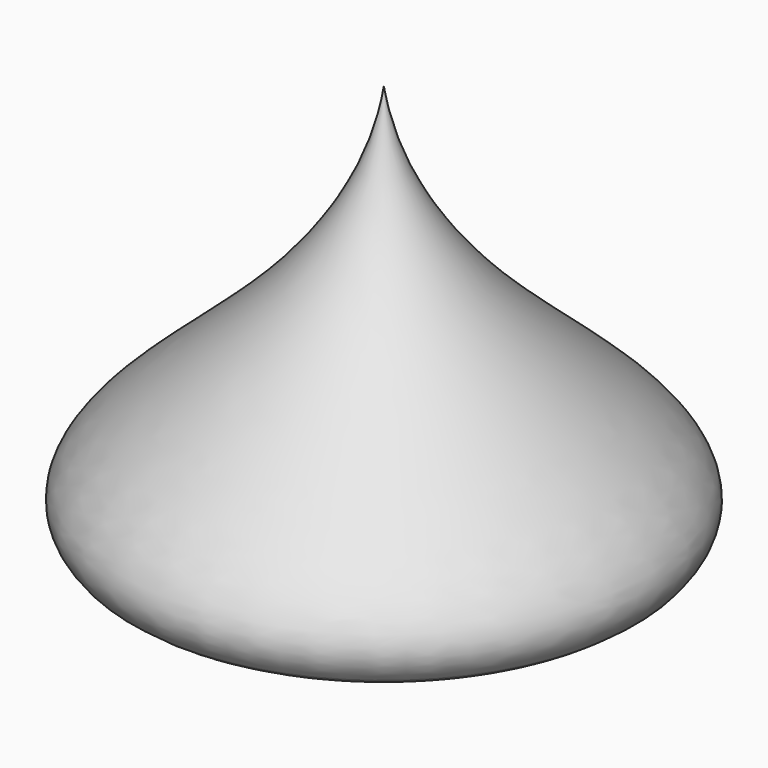
from build123d import *

# Parameters (mm, degrees)
F2_R = 5


with BuildPart() as f1:
    # F0 (on Front) → F1 (revolve)
    with BuildSketch(Plane.XZ):
        with BuildLine():
            Line((-55, 0), (0, 0))
            Line((0, 0), (0, 90))
            add(Edge.make_bspline(
                [(0, 90), (-7.5536321915, 39.2357906064), (-77.6180223598, 19.179575929), (-55, 0)],
                knots=[0, 0, 0, 0, 105.4751155486, 105.4751155486, 105.4751155486, 105.4751155486], degree=3))
        make_face()
    revolve(axis=Axis((0, 0, 45), (0, 0, -1)))

    # F2
    f2_edges = [f1.edges().sort_by_distance(p)[0] for p in [
        (55, 0, 0),
    ]]
    fillet(f2_edges, radius=F2_R)


solid = f1.part
